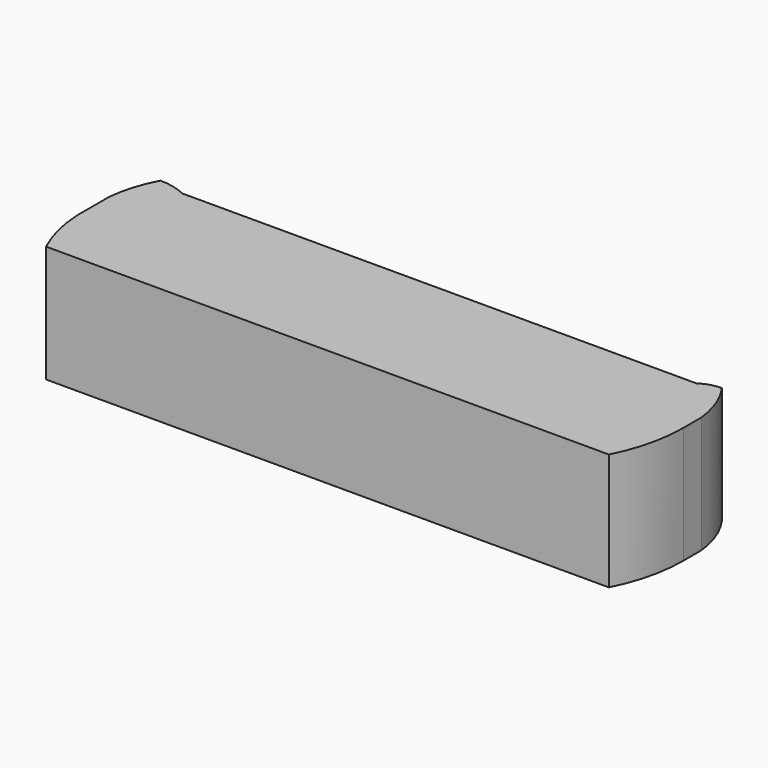
from build123d import *

# Parameters (mm, degrees)
F0_W     = 101.5878766775
F0_H     = 24.442197755
F1_DEPTH = 20
F3_DEPTH = 25
F5_DEPTH = 25


with BuildPart() as f1:
    # F0 (on Top) → F1 (new body)
    with BuildSketch(Plane.XY):
        with Locations((0.3819093108, 12.2210988775)):
            Rectangle(F0_W, F0_H)
    extrude(amount=F1_DEPTH)

    # F2 (on face) → F3 (cut)
    with BuildSketch(Plane.XY.offset(20)):
        with BuildLine():
            ThreePointArc((-50.4120290279, 16.5795714258), (-49.5897410565, 20.6289075462), (-47.9984842241, 24.442197755))
            Line((-47.9984842241, 24.442197755), (-50.4120290279, 24.442197755))
            Line((-50.4120290279, 24.442197755), (-50.4120290279, 16.5795714258))
        make_face()
        with BuildLine():
            ThreePointArc((-47.9984842241, 0), (-49.6724374157, 4.6588518495), (-50.4120290279, 9.5537496105))
            Line((-50.4120290279, 9.5537496105), (-50.4120290279, 0))
            Line((-50.4120290279, 0), (-47.9984842241, 0))
        make_face()
        with BuildLine():
            Line((51.1758476496, 24.442197755), (47.9984171689, 24.442197755))
            ThreePointArc((47.9984171689, 24.442197755), (50.12222675, 20.4607446272), (51.1758476496, 16.0729867548))
            Line((51.1758476496, 16.0729867548), (51.1758476496, 24.442197755))
        make_face()
        with BuildLine():
            Line((51.1758476496, 0), (51.1758476496, 12.2210988775))
            ThreePointArc((51.1758476496, 12.2210988775), (50.425198292, 5.9349952856), (48.2219271362, 0))
            Line((48.2219271362, 0), (51.1758476496, 0))
        make_face()
    extrude(amount=-F3_DEPTH, mode=Mode.SUBTRACT)

    # F4 (on face) → F5 (cut)
    with BuildSketch(Plane.XY.offset(20)):
        with BuildLine():
            ThreePointArc((-47.9984842241, 24.442197755), (-45.641486399, 24.1705843884), (-43.4080474079, 23.3699828386))
            Line((-43.4080474079, 23.3699828386), (44.5075258613, 23.3699828386))
            ThreePointArc((44.5075258613, 23.3699828386), (46.1724950081, 24.1681037554), (47.9984171689, 24.442197755))
            Line((47.9984171689, 24.442197755), (-47.9984842241, 24.442197755))
        make_face()
    extrude(amount=-F5_DEPTH, mode=Mode.SUBTRACT)


solid = f1.part
